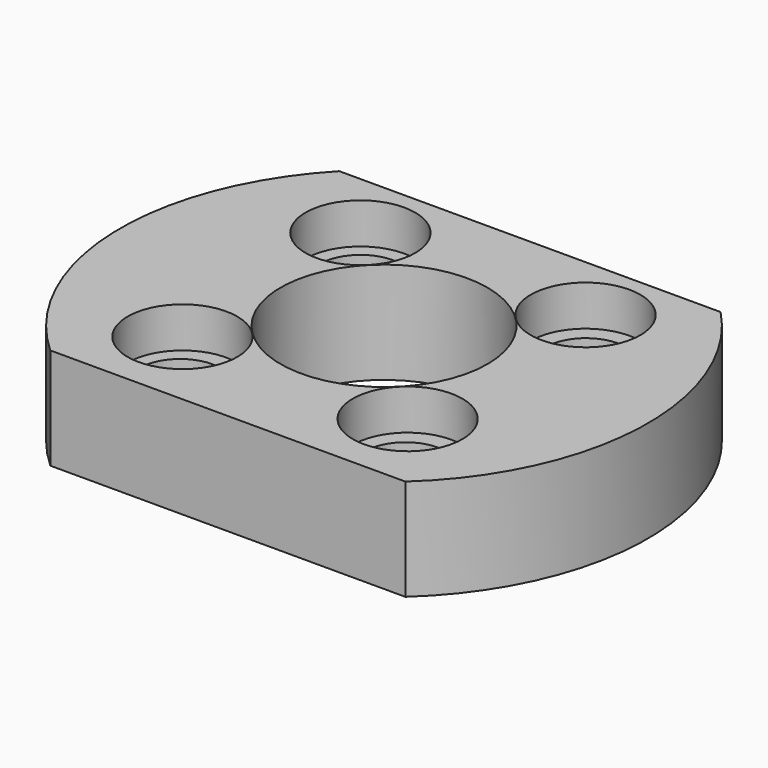
from build123d import *

# Parameters (mm, degrees)
F0_R     = 2
F0_R_2   = 5.1
F1_DEPTH = 5
F2_R     = 2.7
F2_R_2   = 2
F3_DEPTH = 2


with BuildPart() as f1:
    # F0 (on Top) → F1 (new body)
    with BuildSketch(Plane.XY):
        with BuildLine():
            Line((-8.744989, -9.619), (8.744989, -9.619))
            ThreePointArc((8.744989, -9.619), (12.99212, -0.452563), (9.39311, 8.987185))
            Line((9.39311, 8.987185), (-9.39311, 8.987185))
            ThreePointArc((-9.39311, 8.987185), (-12.99212, -0.452563), (-8.744989, -9.619))
        make_face()
        with Locations((-5.553092, -5.619)):
            Circle(F0_R, mode=Mode.SUBTRACT)
        with Locations((5.553092, -5.619)):
            Circle(F0_R, mode=Mode.SUBTRACT)
        with Locations((-5.553092, 5.487185)):
            Circle(F0_R, mode=Mode.SUBTRACT)
        Circle(F0_R_2, mode=Mode.SUBTRACT)
        with Locations((5.553092, 5.487185)):
            Circle(F0_R, mode=Mode.SUBTRACT)
    extrude(amount=F1_DEPTH)

    # F2 (on face) → F3 (cut)
    with BuildSketch(Plane.XY.offset(5)):
        with Locations((-5.553092, 5.487185)):
            Circle(F2_R)
        with Locations((-5.553092, 5.487185)):
            Circle(F2_R_2, mode=Mode.SUBTRACT)
        with Locations((5.487185, 5.553092)):
            Circle(F2_R)
        with Locations((5.553092, 5.487185)):
            Circle(F2_R_2, mode=Mode.SUBTRACT)
        with Locations((5.553092, -5.487185)):
            Circle(F2_R)
        with Locations((5.553092, -5.619)):
            Circle(F2_R_2, mode=Mode.SUBTRACT)
        with Locations((-5.487185, -5.553092)):
            Circle(F2_R)
        with Locations((-5.553092, -5.619)):
            Circle(F2_R_2, mode=Mode.SUBTRACT)
    extrude(amount=-F3_DEPTH, mode=Mode.SUBTRACT)


solid = f1.part
